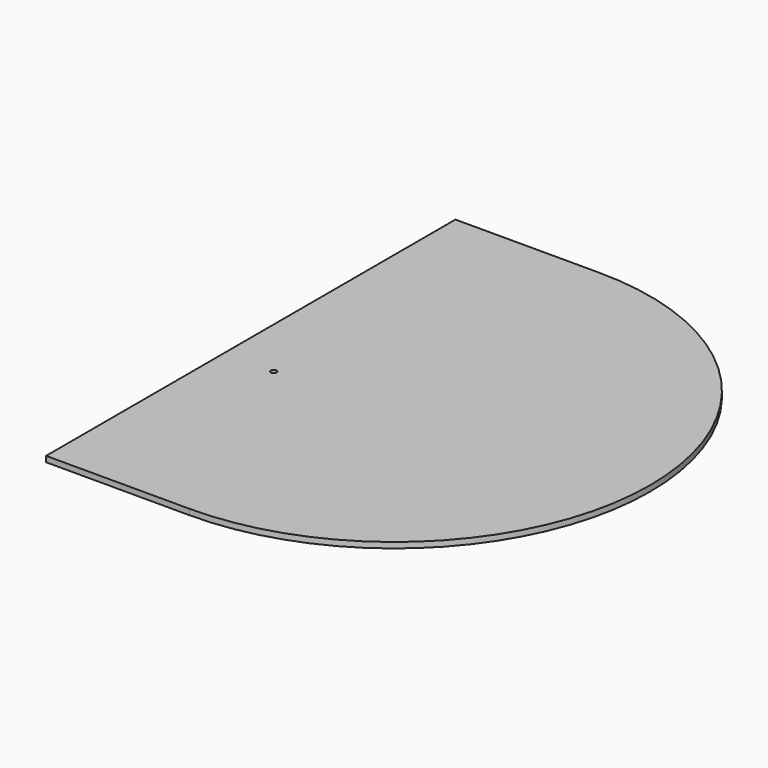
from build123d import *

# Parameters (mm, degrees)
F1_DEPTH = 8
F3_DEPTH = 2
F4_R     = 4
F5_DEPTH = 8
F7_DEPTH = 2


with BuildPart() as f1:
    # F0 (on Top) → F1 (new body)
    with BuildSketch(Plane.XY):
        with BuildLine():
            Line((-202, -360), (0, -360))
            ThreePointArc((0, -360), (360, 0), (0, 360))
            Line((0, 360), (-202, 360))
            Line((-202, 360), (-202, -360))
        make_face()
    extrude(amount=F1_DEPTH)

    # F2 (on face) → F3 (cut)
    with BuildSketch(Plane(origin=(0, 0, 0), x_dir=(1, 0, 0), z_dir=(0, 0, -1))):
        with BuildLine():
            ThreePointArc((0, 350), (350, 0), (0, -350))
            Line((0, -350), (-202, -350))
            Line((-202, -350), (-202, -352))
            Line((-202, -352), (0, -352))
            ThreePointArc((0, -352), (352, 0), (0, 352))
            Line((0, 352), (-202, 352))
            Line((-202, 352), (-202, 350))
            Line((-202, 350), (0, 350))
        make_face()
    extrude(amount=-F3_DEPTH, mode=Mode.SUBTRACT)

    # F4 (on face) → F5 (cut, through all)
    with BuildSketch(Plane.XY.offset(8)):
        with Locations((-132, -47)):
            Circle(F4_R)
    extrude(amount=-F5_DEPTH, mode=Mode.SUBTRACT)

    # F6 (on face) → F7 (cut)
    with BuildSketch(Plane(origin=(0, 0, 0), x_dir=(1, 0, 0), z_dir=(0, 0, -1))):
        with BuildLine():
            Line((-202, 149), (-202, -55))
            ThreePointArc((-202, -55), (-100, 47), (-202, 149))
        make_face()
    extrude(amount=-F7_DEPTH, mode=Mode.SUBTRACT)


solid = f1.part
